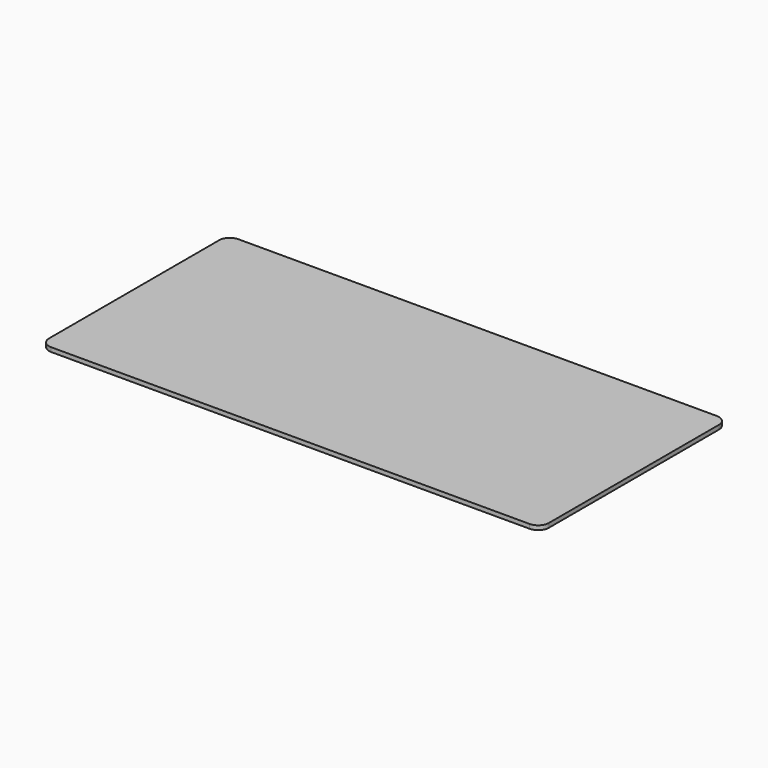
from build123d import *

# Parameters (mm, degrees)
SKETCH_W    = 470
SKETCH_H    = 220
PAD_DEPTH   = 4
FILLET_R    = 10
FILLET001_R = 10
FILLET002_R = 10
FILLET003_R = 10


with BuildPart() as part:
    # Sketch → Pad (new body)
    with BuildSketch(Plane.XY):
        with Locations((113.290486, 6.298135)):
            Rectangle(SKETCH_W, SKETCH_H)
    extrude(amount=PAD_DEPTH)

    # Fillet
    fillet_edges = [part.edges().sort_by_distance(p)[0] for p in [
        (348.290486, -103.701865, 2),
    ]]
    fillet(fillet_edges, radius=FILLET_R)

    # Fillet001
    fillet001_edges = [part.edges().sort_by_distance(p)[0] for p in [
        (348.290486, 116.298135, 2),
    ]]
    fillet(fillet001_edges, radius=FILLET001_R)

    # Fillet002
    fillet002_edges = [part.edges().sort_by_distance(p)[0] for p in [
        (-121.709514, -103.701865, 2),
    ]]
    fillet(fillet002_edges, radius=FILLET002_R)

    # Fillet003
    fillet003_edges = [part.edges().sort_by_distance(p)[0] for p in [
        (-121.709514, 116.298135, 2),
    ]]
    fillet(fillet003_edges, radius=FILLET003_R)


solid = part.part
